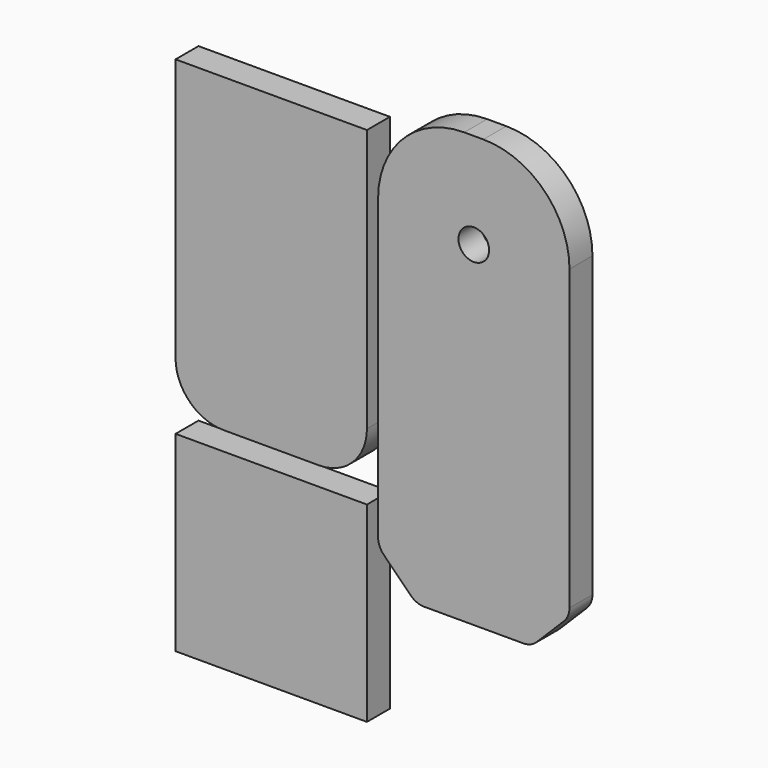
from build123d import *

# Parameters (mm, degrees)
F0_W     = 20
F0_H     = 45
F0_R     = 1.6
F1_DEPTH = 3
F2_R     = 9
F3_SIZE  = 4
F4_R     = 2
F5_W     = 20
F5_H     = 20
F6_DEPTH = 3
F5_H_2   = 32.4758281931
F7_R     = 5
F9_ANGLE = 90


with BuildPart() as f1:
    # F0 (on Top) → F1 (new body)
    with BuildSketch(Plane.XY):
        Rectangle(F0_W, F0_H)
        with Locations((0, -12.5)):
            Circle(F0_R, mode=Mode.SUBTRACT)
    extrude(amount=F1_DEPTH)

    # F2
    f2_edges = [f1.edges().sort_by_distance(p)[0] for p in [
        (10, -22.5, 1.5),
        (-10, -22.5, 1.5),
    ]]
    fillet(f2_edges, radius=F2_R)

    # F3
    f3_edges = [f1.edges().sort_by_distance(p)[0] for p in [
        (-10, 22.5, 1.5),
        (10, 22.5, 1.5),
    ]]
    chamfer(f3_edges, length=F3_SIZE)

    # F4
    f4_edges = [f1.edges().sort_by_distance(p)[0] for p in [
        (-6, 22.5, 1.5),
        (6, 22.5, 1.5),
        (10, 18.5, 1.5),
        (-10, 18.5, 1.5),
    ]]
    fillet(f4_edges, radius=F4_R)


with BuildPart() as f6:
    # F5 (on Front) → F6 (new body)
    with BuildSketch(Plane.XZ):
        with Locations((-42.7732223272, -32.2486439347)):
            Rectangle(F5_W, F5_H)
    extrude(amount=F6_DEPTH)


with BuildPart() as f6b:
    # F5 (on Front) → F6, piece 2 (new body)
    with BuildSketch(Plane.XZ):
        with Locations((-42.7732223272, 5.8636930771)):
            Rectangle(F5_W, F5_H_2)
    extrude(amount=F6_DEPTH)

    # F7
    f7_edges = [f6b.edges().sort_by_distance(p)[0] for p in [
        (-32.773222, -1.5, -10.374221),
        (-52.773222, -1.5, -10.374221),
    ]]
    fillet(f7_edges, radius=F7_R)


with BuildPart() as f1_1:
    # F9: moved
    add(f1.part.rotate(Axis((0, 22.5, 3), (-1, 0, 0)), F9_ANGLE))


with BuildPart() as f1_2:
    # F10: moved
    add(f1_1.part.moved(Location((-21.6, -22.51, 0))))


with BuildPart() as f6b_1:
    # F11: moved
    add(f6b.part.moved(Location((0, 0, 22.8))))


with BuildPart() as f6_1:
    # F12: moved
    add(f6.part.moved(Location((0, 0, 32.7))))


solid = Compound([f1_2.part, f6b_1.part, f6_1.part])
